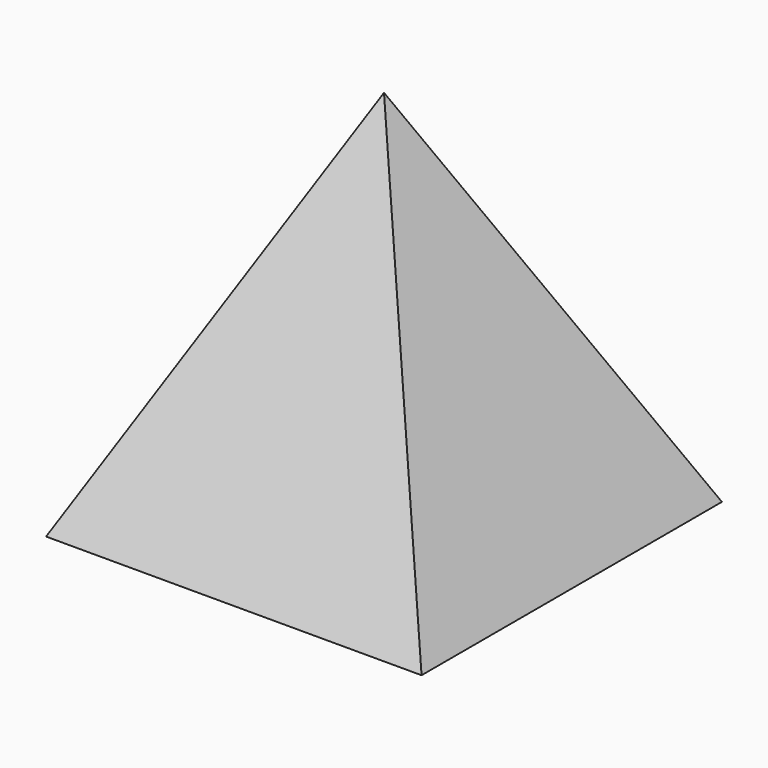
from build123d import *

# Parameters (mm, degrees)
F0_W = 100
F0_H = 100
F4_T = -4


with BuildPart() as f3:
    # F0 (on Top) → F3 section 0
    with BuildSketch(Plane.XY, mode=Mode.PRIVATE) as f3_s0:
        Rectangle(F0_W, F0_H)
    loft([f3_s0.sketch, Vertex(0, 0, 100)])

    # F4
    f4_openings = [f3.faces().sort_by_distance(p)[0] for p in [
        (0, 0, 0),
    ]]
    offset(amount=F4_T, openings=f4_openings)


solid = f3.part
